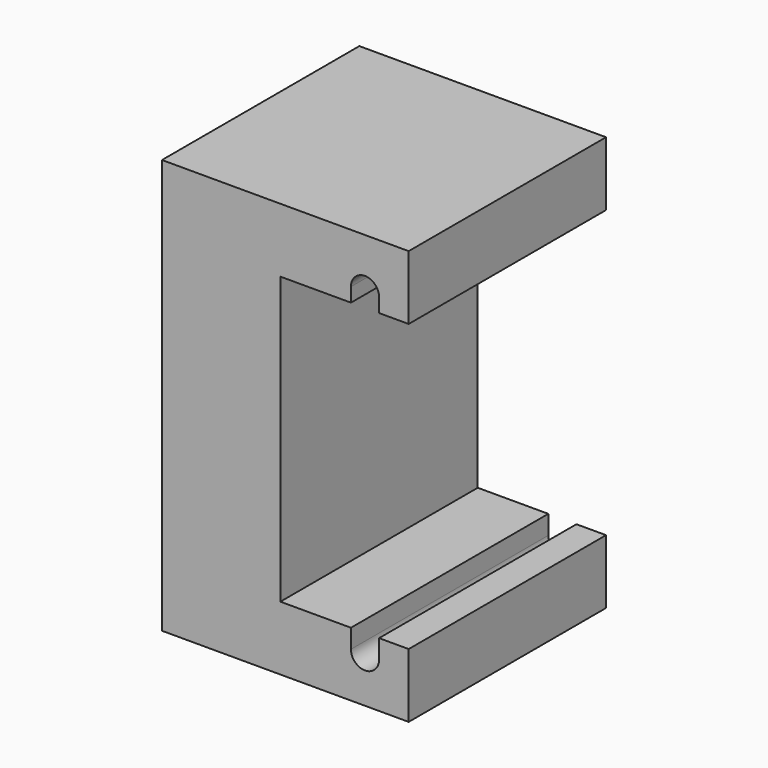
from build123d import *

# Parameters (mm, degrees)
F1_DEPTH = 25


with BuildPart() as f1:
    # F0 (on Front) → F1 (new body)
    with BuildSketch(Plane.XZ):
        with BuildLine():
            Line((0, 42), (0, 0))
            Line((0, 0), (25, 0))
            Line((25, 0), (25, 6.5))
            Line((25, 6.5), (22, 6.5))
            Line((22, 6.5), (22, 4.575))
            ThreePointArc((22, 4.575), (20.575, 3.15), (19.15, 4.575))
            Line((19.15, 4.575), (19.15, 6.5))
            Line((19.15, 6.5), (12, 6.5))
            Line((12, 6.5), (12, 35.5))
            Line((12, 35.5), (19.15, 35.5))
            Line((19.15, 35.5), (19.15, 36.925))
            ThreePointArc((19.15, 36.925), (20.575, 38.35), (22, 36.925))
            Line((22, 36.925), (22, 35.5))
            Line((22, 35.5), (25, 35.5))
            Line((25, 35.5), (25, 42))
            Line((25, 42), (0, 42))
        make_face()
    extrude(amount=F1_DEPTH)


solid = f1.part
